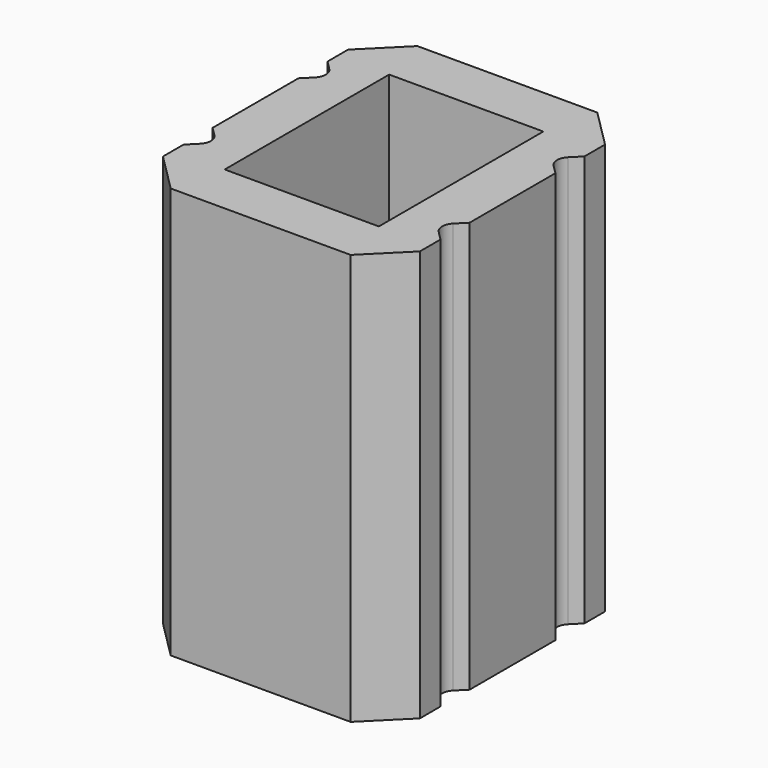
from build123d import *

# Parameters (mm, degrees)
F0_W     = 76.2
F0_H     = 101.6
F1_DEPTH = 203.2
F2_R     = 6.35


with BuildPart() as f1:
    # F0 (on Top) → F1 (new body)
    with BuildSketch(Plane.XY):
        Polygon((0, 19.00799), (19.040657, 0), (107.959343, 0), (127, 19.00799), (127, 31.727383), (118.014842, 40.727982), (127, 49.697725), (127, 102.702275), (118.014842, 111.672018), (127, 120.672617), (127, 133.39201), (107.959343, 152.4), (19.040657, 152.4), (0, 133.39201), (0, 120.672617), (8.985158, 111.672018), (0, 102.702275), (0, 49.697725), (8.985158, 40.727982), (0, 31.727383), align=None)
        with Locations((63.5, 76.2)):
            Rectangle(F0_W, F0_H, mode=Mode.SUBTRACT)
    extrude(amount=F1_DEPTH)

    # F2
    f2_edges = [f1.edges().sort_by_distance(p)[0] for p in [
        (118.014842, 111.672018, 101.6),
        (8.985158, 111.672018, 101.6),
        (8.985158, 40.727982, 101.6),
        (118.014842, 40.727982, 101.6),
    ]]
    fillet(f2_edges, radius=F2_R)


solid = f1.part
